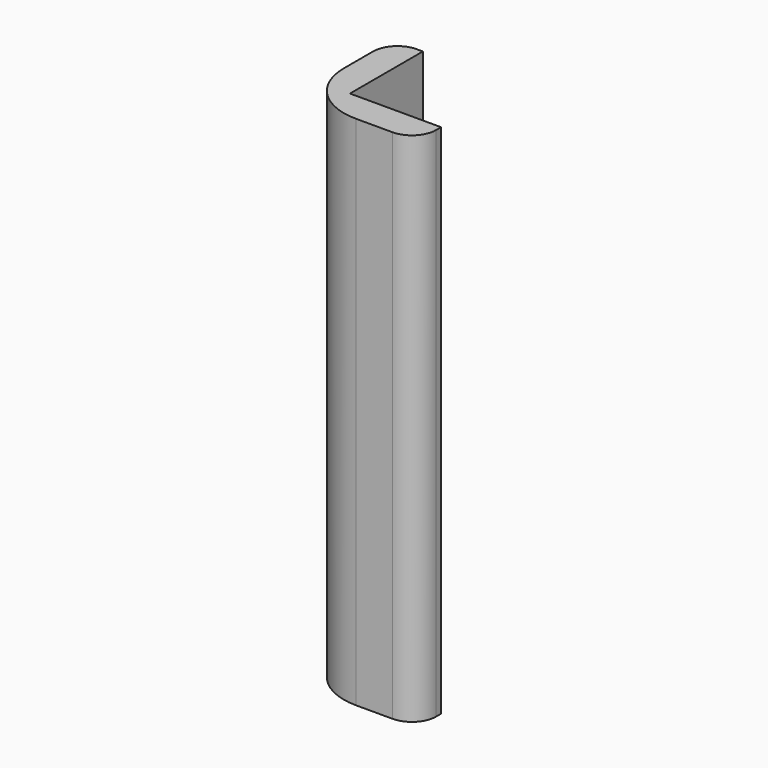
from build123d import *

# Parameters (mm, degrees)
PAD_DEPTH   = 85
FILLET_R    = 10
FILLET001_R = 4


with BuildPart() as part:
    # Sketch → Pad (new body)
    with BuildSketch(Plane.XY):
        Polygon((0, 20), (0, 0), (20, 0), (20, 5), (5, 5), (5, 20), align=None)
    extrude(amount=PAD_DEPTH)

    # Fillet
    fillet_edges = [part.edges().sort_by_distance(p)[0] for p in [
        (0, 0, 42.5),
    ]]
    fillet(fillet_edges, radius=FILLET_R)

    # Fillet001
    fillet001_edges = [part.edges().sort_by_distance(p)[0] for p in [
        (0, 20, 42.5),
        (20, 0, 42.5),
    ]]
    fillet(fillet001_edges, radius=FILLET001_R)


solid = part.part
